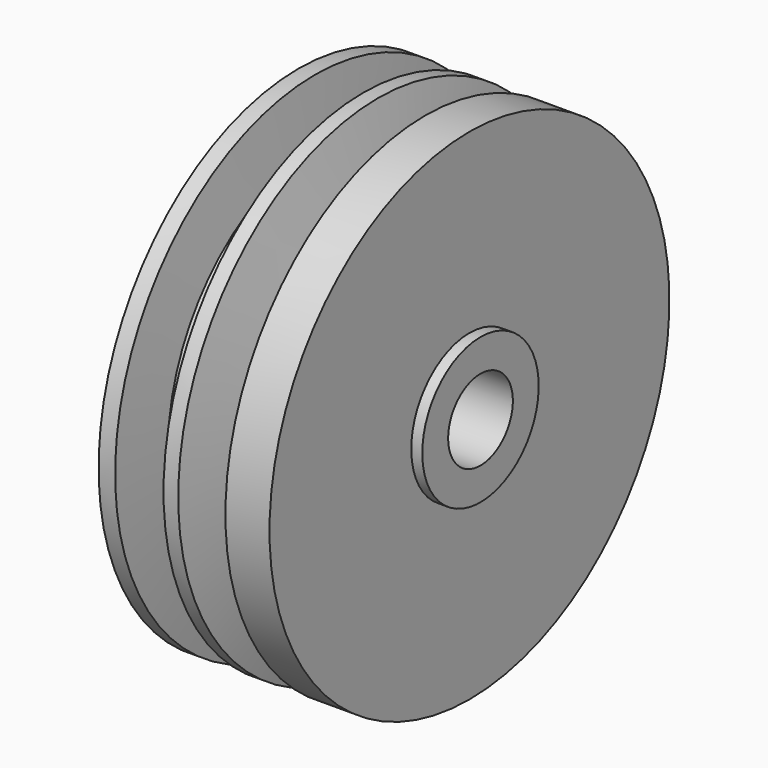
from build123d import *

# Parameters (mm, degrees)
F3_D = 5.588


with BuildPart() as f1:
    # F0 (on Front) → F1 (revolve)
    with BuildSketch(Plane.XZ):
        Polygon((-9.15198, 13.208), (-9.15198, 0), (4.56402, 0), (4.56402, 5.027528), (3.80202, 5.027528), (3.80202, 17.272), (0.75402, 17.272), (-0.486955, 13.208), (-1.650846, 13.208), (-2.506008, 17.272), (-3.522008, 17.272), (-5.248328, 13.208), (-6.465123, 13.208), (-6.86598, 17.272), (-8.00898, 17.272), (-8.00898, 13.208), align=None)
    revolve(axis=Axis((-2.29398, 0, 0), (1, 0, 0)))

    # F3 (through all)
    with Locations(Plane.YZ.offset(4.56402)):
        with Locations((0, 0)):
            Hole(F3_D / 2)


solid = f1.part
